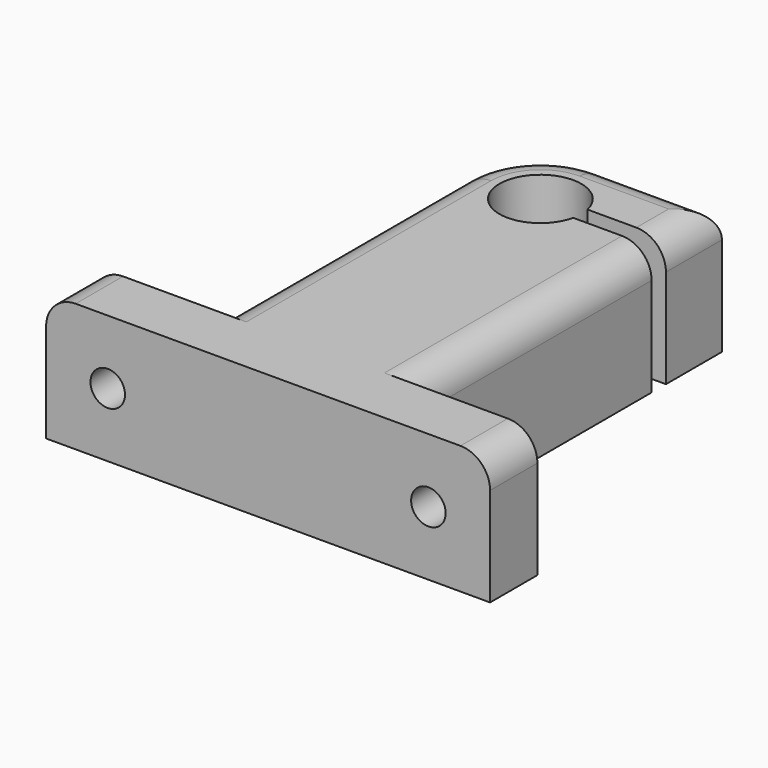
from build123d import *

# Parameters (mm, degrees)
F1_DEPTH = 13
F2_R     = 1.5
F3_DEPTH = 12.5
F4_R     = 2.2
F5_DEPTH = 8
F7_R     = 1.75
F6_R     = 1.75
F8_DEPTH = 25
F9_R     = 3


with BuildPart() as f1:
    # F0 (on Top) → F1 (new body)
    with BuildSketch(Plane.XY):
        with BuildLine():
            Line((-31.585052, -11.882249), (-31.585052, -17.882249))
            Line((-31.585052, -17.882249), (13.414948, -17.882249))
            Line((13.414948, -17.882249), (13.414948, -11.882249))
            Line((13.414948, -11.882249), (0.914948, -11.882249))
            Line((0.914948, -11.882249), (0.914948, 18.208811))
            Line((0.914948, 18.208811), (-7.035814, 18.208811))
            ThreePointArc((-7.035814, 18.208811), (-15.235052, 19.117751), (-7.035814, 20.02669))
            Line((-7.035814, 20.02669), (0.914948, 20.02669))
            Line((0.914948, 20.02669), (0.914948, 27.117751))
            Line((0.914948, 27.117751), (-11.085052, 27.117751))
            ThreePointArc((-11.085052, 27.117751), (-16.741906, 24.774605), (-19.085052, 19.117751))
            Line((-19.085052, 19.117751), (-19.085052, -11.882249))
            Line((-19.085052, -11.882249), (-31.585052, -11.882249))
        make_face()
    extrude(amount=F1_DEPTH)

    # F2 (on face) → F3 (cut, symmetric)
    with BuildSketch(Plane(origin=(0, 18.208811, 0), x_dir=(-1, 0, 0), z_dir=(0, 1, 0))):
        with Locations((3.060433, 6.5)):
            Circle(F2_R)
    extrude(amount=F3_DEPTH, both=True, mode=Mode.SUBTRACT)

    # F4 (on face) → F5 (cut)
    with BuildSketch(Plane(origin=(0, 27.117751, 0), x_dir=(-1, 0, 0), z_dir=(0, 1, 0))):
        with Locations((3.060433, 6.5)):
            Circle(F4_R)
    extrude(amount=-F5_DEPTH, mode=Mode.SUBTRACT)

    # F7 (on face) + F6 (on face) → F8 (cut)
    with BuildSketch(Plane(origin=(0, -11.882249, 0), x_dir=(-1, 0, 0), z_dir=(0, 1, 0))):
        with Locations((25.335052, 6.5)):
            Circle(F7_R)
    with BuildSketch(Plane(origin=(0, -11.882249, 0), x_dir=(-1, 0, 0), z_dir=(0, 1, 0))):
        with Locations((-7.164948, 6.5)):
            Circle(F6_R)
    extrude(amount=-F8_DEPTH, mode=Mode.SUBTRACT)

    # F9
    f9_edges = [f1.edges().sort_by_distance(p)[0] for p in [
        (13.414948, -14.882249, 13),
        (-31.585052, -14.882249, 13),
        (0.914948, 3.163281, 13),
        (0.914948, 23.57222, 13),
        (-19.085052, 3.617751, 13),
    ]]
    fillet(f9_edges, radius=F9_R)


solid = f1.part
